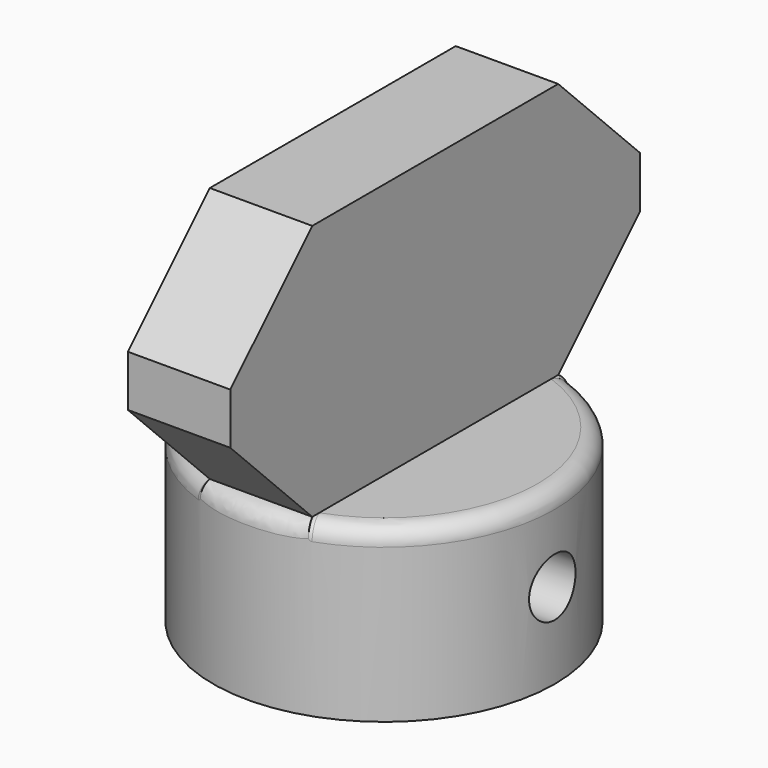
from build123d import *

# Parameters (mm, degrees)
PAD007_DEPTH             = 2.7
CLONE087_ROLL_ANGLE      = 180
CYLINDER1014_R           = 2.7
CYLINDER1014_DEPTH       = 100
CYLINDER1018_R           = 1.7
CYLINDER1018_DEPTH       = 10
CLONE086_PITCH_ANGLE     = -90
CLONE086_PLACEMENT_ANGLE = -180
BOX044_W                 = 6
BOX044_H                 = 30
BOX044_DEPTH             = 15
CHAMFER017_SIZE          = 6
CYLINDER1039_R           = 10
CYLINDER1039_DEPTH       = 10
FILLET_R                 = 1


with BuildPart() as clone_of_m3nuthousingmaster012:
    # Sketch008 → Pad007 (new body)
    with BuildSketch(Plane(origin=(65, 30, 1.5), x_dir=(0, 0, 1), z_dir=(-1, 0, 0))):
        Polygon((0, 0), (1.674316, 2.9), (21.674316, 2.9), (21.674316, -2.9), (1.674316, -2.9), align=None)
    extrude(amount=PAD007_DEPTH)


with BuildPart() as clone_of_m3nuthousingmaster012_1:
    # Clone087 roll: moved
    add(clone_of_m3nuthousingmaster012.part.rotate(Axis((0, 0, 0), (1, 0, 0)), CLONE087_ROLL_ANGLE))


with BuildPart() as clone_of_m3nuthousingmaster012_2:
    # Clone087 placement: moved
    add(clone_of_m3nuthousingmaster012_1.part.moved(Location((-58.3, 30, 10))))


with BuildPart() as obj1:
    # Cylinder1014 → Cylinder1014 (new body)
    with BuildSketch(Plane.XY):
        Circle(CYLINDER1014_R)
    extrude(amount=CYLINDER1014_DEPTH)


with BuildPart() as obj1_1:
    # Clone085 placement: moved
    add(obj1.part.moved(Location((0, 0, -90))))


with BuildPart() as fusion069:
    # Cylinder1018 → Cylinder1018 (new body)
    with BuildSketch(Plane.XY):
        Circle(CYLINDER1018_R)
    extrude(amount=CYLINDER1018_DEPTH)


with BuildPart() as fusion069_1:
    # Clone086 pitch: moved
    add(fusion069.part.rotate(Axis((0, 0, 0), (0, 1, 0)), CLONE086_PITCH_ANGLE))


with BuildPart() as fusion069_2:
    # Clone086 placement: moved
    add(fusion069_1.part.moved(Location((1, 0, 5))).rotate(Axis((1, 0, 5), (0, 0, 1)), CLONE086_PLACEMENT_ANGLE))

    # Fusion069: union Clone of M3NutHousingMaster012, obj1
    add(clone_of_m3nuthousingmaster012_2.part)
    add(obj1_1.part)


with BuildPart() as chamfer017:
    # Box044 → Box044 (new body)
    with BuildSketch(Plane(origin=(-3, -15, 10), x_dir=(1, 0, 0), z_dir=(0, 0, 1))):
        with Locations((3, 15)):
            Rectangle(BOX044_W, BOX044_H)
    extrude(amount=BOX044_DEPTH)

    # Chamfer017
    chamfer017_edges = [chamfer017.edges().sort_by_distance(p)[0] for p in [
        (0, -15, 10),
        (0, -15, 25),
        (0, 15, 10),
        (0, 15, 25),
    ]]
    chamfer(chamfer017_edges, length=CHAMFER017_SIZE)


with BuildPart() as adjustwheel:
    # Cylinder1039 → Cylinder1039 (new body)
    with BuildSketch(Plane.XY):
        Circle(CYLINDER1039_R)
    extrude(amount=CYLINDER1039_DEPTH)

    # Fusion070: union Chamfer017
    add(chamfer017.part)

    # Fillet
    fillet_edges = [adjustwheel.edges().sort_by_distance(p)[0] for p in [
        (-10, 0, 10),
    ]]
    fillet(fillet_edges, radius=FILLET_R)

    # Cut052: cut Fusion069
    add(fusion069_2.part, mode=Mode.SUBTRACT)


solid = adjustwheel.part
